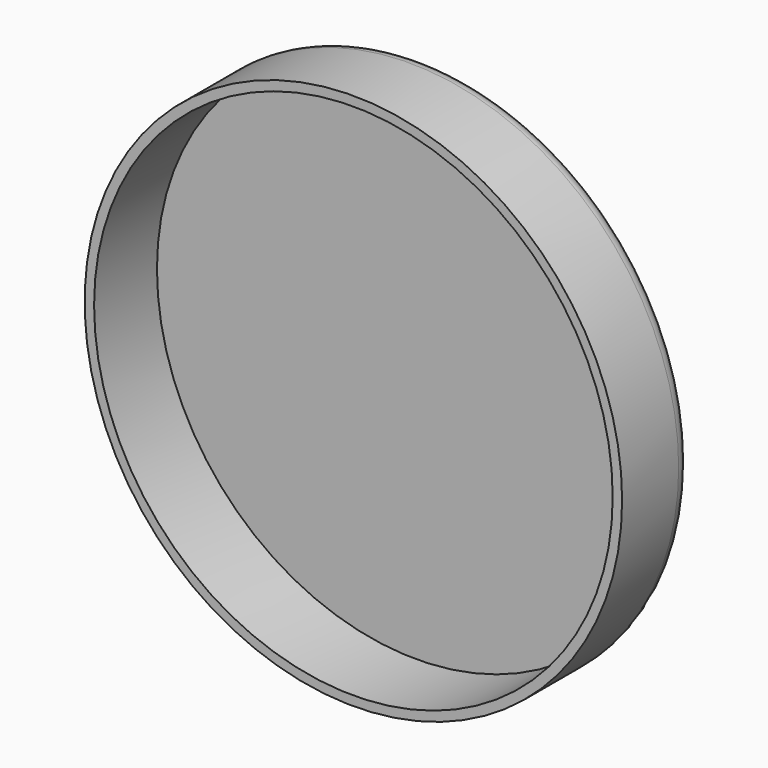
from build123d import *

# Parameters (mm, degrees)
F0_R     = 17.1
F0_R_2   = 16.5
F1_DEPTH = 5.5
F2_DEPTH = 0.5
F3_R     = 1


with BuildPart() as f1:
    # F0 (on Front) → F1 (new body)
    with BuildSketch(Plane.XZ):
        Circle(F0_R)
        Circle(F0_R_2, mode=Mode.SUBTRACT)
    extrude(amount=F1_DEPTH)

    # F0 (on Front) → F2 (join)
    with BuildSketch(Plane.XZ):
        Circle(F0_R_2)
    extrude(amount=F2_DEPTH)

    # F3
    f3_edges = [f1.edges().sort_by_distance(p)[0] for p in [
        (-17.1, 0, 0),
    ]]
    fillet(f3_edges, radius=F3_R)


solid = f1.part
